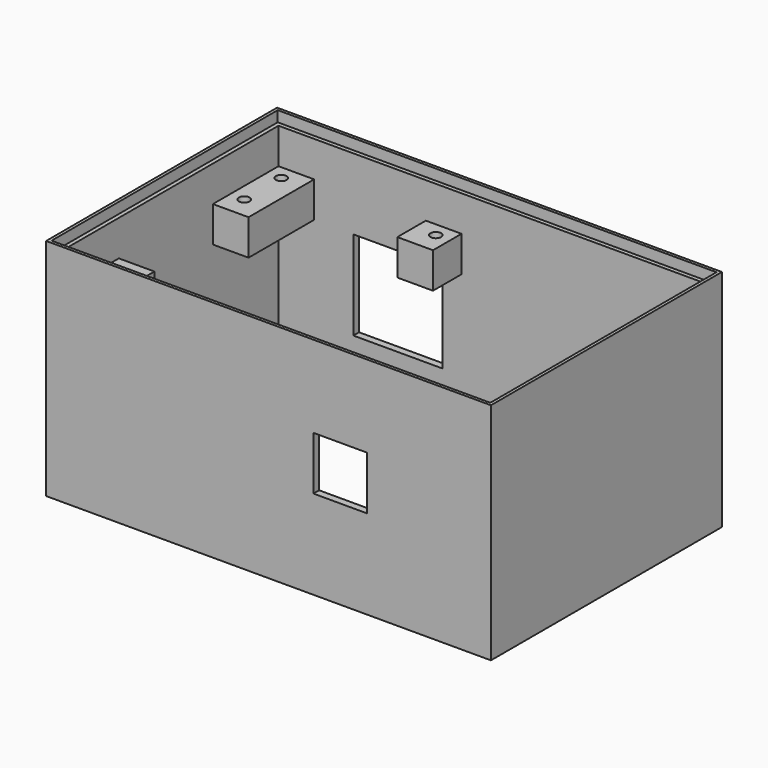
from build123d import *

# Parameters (mm, degrees)
F0_W      = 124.8
F0_H      = 81
F1_DEPTH  = 63
F2_W      = 123.1
F2_H      = 79.3
F3_DEPTH  = 3
F4_W      = 123.1
F4_H      = 79.3
F5_DEPTH  = 3
F6_W      = 120.8
F6_H      = 77
F7_DEPTH  = 60.001
F8_W      = 21
F8_H      = 10
F9_DEPTH  = 10
F10_W     = 23
F10_H     = 10
F11_DEPTH = 10
F12_W     = 10
F12_H     = 10
F13_DEPTH = 10
F14_W     = 10
F14_H     = 10
F15_DEPTH = 10
F16_W     = 10
F16_H     = 10
F17_DEPTH = 10
F18_W     = 10
F18_H     = 10
F19_DEPTH = 10
F20_W     = 10
F20_H     = 10
F21_DEPTH = 10
F22_R     = 1.5
F23_DEPTH = 50.001
F24_R     = 1.5
F25_DEPTH = 50.001
F26_R     = 1.5
F27_DEPTH = 50.001
F28_R     = 1.5
F29_DEPTH = 50.001
F30_R     = 1.5
F31_DEPTH = 50.001
F32_R     = 1.5
F33_DEPTH = 50.001
F34_R     = 1.5
F35_DEPTH = 50.001
F36_R     = 1.5
F37_DEPTH = 50.001
F38_R     = 1.5
F39_DEPTH = 50.001
F40_W     = 25
F40_H     = 25
F41_DEPTH = 2.001
F42_W     = 15
F42_H     = 15
F43_DEPTH = 12


with BuildPart() as f1:
    # F0 (on Top) → F1 (new body)
    with BuildSketch(Plane.XY):
        Rectangle(F0_W, F0_H)
        Rectangle(F0_W, F0_H)
    extrude(amount=F1_DEPTH)

    # F2 (on face) → F3 (cut)
    with BuildSketch(Plane(origin=(0, 0, 0), x_dir=(1, 0, 0), z_dir=(0, 0, -1))):
        Rectangle(F2_W, F2_H)
    extrude(amount=-F3_DEPTH, mode=Mode.SUBTRACT)

    # F4 (on face) → F5 (cut)
    with BuildSketch(Plane.XY.offset(63)):
        Rectangle(F4_W, F4_H)
    extrude(amount=-F5_DEPTH, mode=Mode.SUBTRACT)

    # F6 (on face) → F7 (cut, through all)
    with BuildSketch(Plane.XY.offset(60)):
        Rectangle(F6_W, F6_H)
    extrude(amount=-F7_DEPTH, mode=Mode.SUBTRACT)

    # F8 (on face) → F9 (join)
    with BuildSketch(Plane.YZ.offset(-60.4)):
        with Locations((-28, 45)):
            Rectangle(F8_W, F8_H)
    extrude(amount=F9_DEPTH)

    # F10 (on face) → F11 (join)
    with BuildSketch(Plane.YZ.offset(-60.4)):
        with Locations((27, 45)):
            Rectangle(F10_W, F10_H)
    extrude(amount=F11_DEPTH)

    # F12 (on face) → F13 (join)
    with BuildSketch(Plane(origin=(60.4, 0, 0), x_dir=(0, -1, 0), z_dir=(-1, 0, 0))):
        with Locations((33.5, 45)):
            Rectangle(F12_W, F12_H)
    extrude(amount=F13_DEPTH)

    # F14 (on face) → F15 (join)
    with BuildSketch(Plane(origin=(60.4, 0, 0), x_dir=(0, -1, 0), z_dir=(-1, 0, 0))):
        with Locations((-10.5, 45)):
            Rectangle(F14_W, F14_H)
    extrude(amount=F15_DEPTH)

    # F16 (on face) → F17 (join)
    with BuildSketch(Plane(origin=(0, -38.5, 0), x_dir=(-1, 0, 0), z_dir=(0, 1, 0))):
        with Locations((-25.6, 45)):
            Rectangle(F16_W, F16_H)
    extrude(amount=F17_DEPTH)

    # F18 (on face) → F19 (join)
    with BuildSketch(Plane(origin=(0, -38.5, 0), x_dir=(-1, 0, 0), z_dir=(0, 1, 0))):
        with Locations((12.1, 45)):
            Rectangle(F18_W, F18_H)
    extrude(amount=F19_DEPTH)

    # F20 (on face) → F21 (join)
    with BuildSketch(Plane.XZ.offset(-38.5)):
        with Locations((-14.06, 45)):
            Rectangle(F20_W, F20_H)
    extrude(amount=F21_DEPTH)

    # F22 (on face) → F23 (cut, through all)
    with BuildSketch(Plane.XY.offset(50)):
        with Locations((-56.4, -34.5)):
            Circle(F22_R)
    extrude(amount=-F23_DEPTH, mode=Mode.SUBTRACT)

    # F24 (on face) → F25 (cut, through all)
    with BuildSketch(Plane.XY.offset(50)):
        with Locations((-56.4, -23.5)):
            Circle(F24_R)
    extrude(amount=-F25_DEPTH, mode=Mode.SUBTRACT)

    # F26 (on face) → F27 (cut, through all)
    with BuildSketch(Plane.XY.offset(50)):
        with Locations((-56.4, 34.5)):
            Circle(F26_R)
    extrude(amount=-F27_DEPTH, mode=Mode.SUBTRACT)

    # F28 (on face) → F29 (cut, through all)
    with BuildSketch(Plane.XY.offset(50)):
        with Locations((-56.4, 21.5)):
            Circle(F28_R)
    extrude(amount=-F29_DEPTH, mode=Mode.SUBTRACT)

    # F30 (on face) → F31 (cut, through all)
    with BuildSketch(Plane.XY.offset(50)):
        with Locations((56.4, -34.5)):
            Circle(F30_R)
    extrude(amount=-F31_DEPTH, mode=Mode.SUBTRACT)

    # F32 (on face) → F33 (cut, through all)
    with BuildSketch(Plane.XY.offset(50)):
        with Locations((56.4, 11.5)):
            Circle(F32_R)
    extrude(amount=-F33_DEPTH, mode=Mode.SUBTRACT)

    # F34 (on face) → F35 (cut, through all)
    with BuildSketch(Plane.XY.offset(50)):
        with Locations((26.6, -34.5)):
            Circle(F34_R)
    extrude(amount=-F35_DEPTH, mode=Mode.SUBTRACT)

    # F36 (on face) → F37 (cut, through all)
    with BuildSketch(Plane.XY.offset(50)):
        with Locations((-13.1, -34.5)):
            Circle(F36_R)
    extrude(amount=-F37_DEPTH, mode=Mode.SUBTRACT)

    # F38 (on face) → F39 (cut, through all)
    with BuildSketch(Plane.XY.offset(50)):
        with Locations((-13.06, 34.5)):
            Circle(F38_R)
    extrude(amount=-F39_DEPTH, mode=Mode.SUBTRACT)

    # F40 (on face) → F41 (cut, through all)
    with BuildSketch(Plane.XZ.offset(-38.5)):
        with Locations((-26.9, 27.5)):
            Rectangle(F40_W, F40_H)
    extrude(amount=-F41_DEPTH, mode=Mode.SUBTRACT)

    # F42 (on face) → F43 (cut)
    with BuildSketch(Plane.XZ.offset(40.5)):
        with Locations((20.1, 32.5)):
            Rectangle(F42_W, F42_H)
    extrude(amount=-F43_DEPTH, mode=Mode.SUBTRACT)


solid = f1.part
